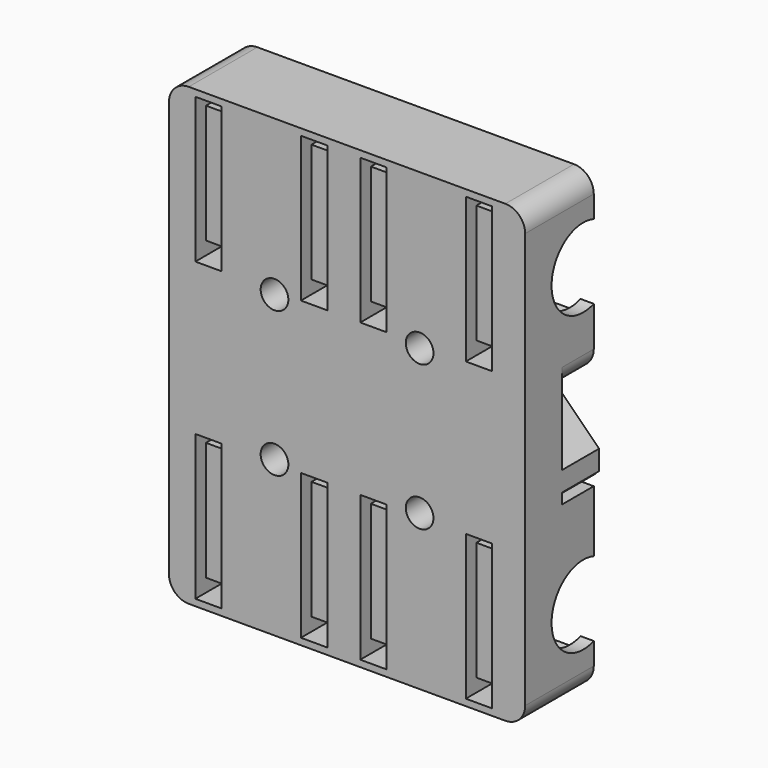
from build123d import *

# Parameters (mm, degrees)
SKETCH_W               = 54
SKETCH_H               = 69
SKETCH_R               = 2.1
PAD_DEPTH              = 13
SKETCH001_W            = 4
SKETCH001_H            = 2
POCKET_DEPTH           = 13
LINEARPATTERN_COUNT    = 2
LINEARPATTERN_PITCH    = 25
SKETCH002_R            = 7.7
POCKET001_DEPTH        = 58
SKETCH003_W            = 54
SKETCH003_H            = 15.3
POCKET002_DEPTH        = 6
SKETCH004_W            = 54
SKETCH004_H            = 9
PAD001_DEPTH           = 7
SKETCH005_R            = 0.7
PAD002_DEPTH           = 7
LINEARPATTERN001_COUNT = 13
LINEARPATTERN001_PITCH = 4.166667
SKETCH006_W            = 8
SKETCH006_H            = 10.6
POCKET003_DEPTH        = 7
SKETCH007_W            = 2
SKETCH007_H            = 16
PAD003_DEPTH           = 10
SKETCH008_R            = 6
POCKET004_DEPTH        = 58
SKETCH009_W            = 4
SKETCH009_H            = 22
POCKET005_DEPTH        = 2
CHAMFER_SIZE           = 6
FILLET_R               = 3


with BuildPart() as part:
    # Sketch → Pad (new body)
    with BuildSketch(Plane(origin=(43, 0, 135.5), x_dir=(1, 0, 0), z_dir=(0, 1, 0))):
        with Locations((-46.353792, 17.791164)):
            Rectangle(SKETCH_W, SKETCH_H)
        with Locations((-57.353792, 28.791164)):
            Circle(SKETCH_R, mode=Mode.SUBTRACT)
        with Locations((-35.353792, 28.791164)):
            Circle(SKETCH_R, mode=Mode.SUBTRACT)
        with Locations((-57.353792, 6.791164)):
            Circle(SKETCH_R, mode=Mode.SUBTRACT)
        with Locations((-35.353792, 6.791164)):
            Circle(SKETCH_R, mode=Mode.SUBTRACT)
    extrude(amount=PAD_DEPTH)

    # Sketch001 → Pocket (cut)
    with BuildSketch(Plane(origin=(43, 13, 135.5), x_dir=(1, 0, 0), z_dir=(0, 1, 0))):
        with Locations((-67.353792, 50.291164)):
            Rectangle(SKETCH001_W, SKETCH001_H)
        with Locations((-67.353792, 30.291164)):
            Rectangle(SKETCH001_W, SKETCH001_H)
        with Locations((-67.353792, 5.291164)):
            Rectangle(SKETCH001_W, SKETCH001_H)
        with Locations((-67.353792, -14.708836)):
            Rectangle(SKETCH001_W, SKETCH001_H)
        with Locations((-51.353792, 50.291164)):
            Rectangle(SKETCH001_W, SKETCH001_H)
        with Locations((-51.353792, 30.291164)):
            Rectangle(SKETCH001_W, SKETCH001_H)
        with Locations((-51.353792, 5.291164)):
            Rectangle(SKETCH001_W, SKETCH001_H)
        with Locations((-51.353792, -14.708836)):
            Rectangle(SKETCH001_W, SKETCH001_H)
    pocket = extrude(amount=-POCKET_DEPTH, mode=Mode.SUBTRACT)

    # LinearPattern: Pocket ×2
    with Locations(*[(i * LINEARPATTERN_PITCH, 0, 0) for i in range(1, LINEARPATTERN_COUNT)]):
        add(pocket, mode=Mode.SUBTRACT)

    # Sketch002 → Pocket001 (cut)
    with BuildSketch(Plane(origin=(-30.353792, 0, 135.5), x_dir=(0, 0, 1), z_dir=(-1, 0, 0))):
        with Locations((-40.291164, 11)):
            Circle(SKETCH002_R)
        with Locations((4.708836, 11)):
            Circle(SKETCH002_R)
    extrude(amount=-POCKET001_DEPTH, mode=Mode.SUBTRACT)

    # Sketch003 → Pocket002 (cut)
    with BuildSketch(Plane(origin=(43, 13, 135.5), x_dir=(1, 0, 0), z_dir=(0, 1, 0))):
        with Locations((-46.353792, 17.641164)):
            Rectangle(SKETCH003_W, SKETCH003_H)
    extrude(amount=-POCKET002_DEPTH, mode=Mode.SUBTRACT)

    # Sketch004 → Pad001 (new body)
    with BuildSketch(Plane(origin=(43, 7, 135.5), x_dir=(1, 0, 0), z_dir=(0, 1, 0))):
        with Locations((-46.353792, 19.191164)):
            Rectangle(SKETCH004_W, SKETCH004_H)
    extrude(amount=PAD001_DEPTH)

    # Sketch005 → Pad002 (new body)
    with BuildSketch(Plane(origin=(43, 14, 135.5), x_dir=(1, 0, 0), z_dir=(0, 1, 0))):
        with Locations((-72.353792, 23.691164)):
            Circle(SKETCH005_R)
        with Locations((-70.353792, 23.691164)):
            Circle(SKETCH005_R)
    pad002 = extrude(amount=-PAD002_DEPTH)

    # LinearPattern001: Pad002 ×13
    with Locations(*[(i * LINEARPATTERN001_PITCH, 0, 0) for i in range(1, LINEARPATTERN001_COUNT)]):
        add(pad002)

    # Sketch006 → Pocket003 (cut)
    with BuildSketch(Plane(origin=(43, 14, 135.5), x_dir=(1, 0, 0), z_dir=(0, 1, 0))):
        with Locations((-46.353792, 19.991164)):
            Rectangle(SKETCH006_W, SKETCH006_H)
    extrude(amount=-POCKET003_DEPTH, mode=Mode.SUBTRACT)

    # Sketch007 → Pad003 (new body)
    with BuildSketch(Plane(origin=(43, 13, 135.5), x_dir=(1, 0, 0), z_dir=(0, 1, 0))):
        with Locations((-72.353792, 40.291164)):
            Rectangle(SKETCH007_W, SKETCH007_H)
        with Locations((-46.353792, 40.291164)):
            Rectangle(SKETCH007_W, SKETCH007_H)
        with Locations((-20.353792, 40.291164)):
            Rectangle(SKETCH007_W, SKETCH007_H)
        with Locations((-72.353792, -4.708836)):
            Rectangle(SKETCH007_W, SKETCH007_H)
        with Locations((-46.353792, -4.708836)):
            Rectangle(SKETCH007_W, SKETCH007_H)
        with Locations((-20.353792, -4.708836)):
            Rectangle(SKETCH007_W, SKETCH007_H)
    extrude(amount=-PAD003_DEPTH)

    # Sketch008 → Pocket004 (cut)
    with BuildSketch(Plane(origin=(-30.353792, 0, 135.5), x_dir=(0, 0, 1), z_dir=(-1, 0, 0))):
        with Locations((-40.291164, 11)):
            Circle(SKETCH008_R)
        with Locations((4.708836, 11)):
            Circle(SKETCH008_R)
    extrude(amount=-POCKET004_DEPTH, mode=Mode.SUBTRACT)

    # Sketch009 → Pocket005 (cut)
    with BuildSketch(Plane(origin=(43, 0, 135.5), x_dir=(1, 0, 0), z_dir=(0, -1, 0))):
        with Locations((-67.353792, 4.708836)):
            Rectangle(SKETCH009_W, SKETCH009_H)
        with Locations((-51.353792, 4.708836)):
            Rectangle(SKETCH009_W, SKETCH009_H)
        with Locations((-42.353792, 4.708836)):
            Rectangle(SKETCH009_W, SKETCH009_H)
        with Locations((-26.353792, 4.708836)):
            Rectangle(SKETCH009_W, SKETCH009_H)
        with Locations((-67.353792, -40.291164)):
            Rectangle(SKETCH009_W, SKETCH009_H)
        with Locations((-51.353792, -40.291164)):
            Rectangle(SKETCH009_W, SKETCH009_H)
        with Locations((-42.353792, -40.291164)):
            Rectangle(SKETCH009_W, SKETCH009_H)
        with Locations((-26.353792, -40.291164)):
            Rectangle(SKETCH009_W, SKETCH009_H)
    extrude(amount=-POCKET005_DEPTH, mode=Mode.SUBTRACT)

    # Chamfer
    chamfer_edges = [part.edges().sort_by_distance(p)[0] for p in [
        (23.646208, 10.5, 120.808836),
        (0.646208, 10.5, 120.808836),
        (-7.353792, 10.5, 120.808836),
        (-30.353792, 10.5, 120.808836),
    ]]
    chamfer(chamfer_edges, length=CHAMFER_SIZE)

    # Fillet
    fillet_edges = [part.edges().sort_by_distance(p)[0] for p in [
        (23.646208, 6.5, 83.208836),
        (-30.353792, 6.5, 83.208836),
        (-30.353792, 6.5, 152.208836),
        (23.646208, 6.5, 152.208836),
        (23.646208, 10, 125.508836),
        (-30.353792, 10, 110.208836),
        (-30.353792, 10, 125.508836),
    ]]
    fillet(fillet_edges, radius=FILLET_R)


solid = part.part
